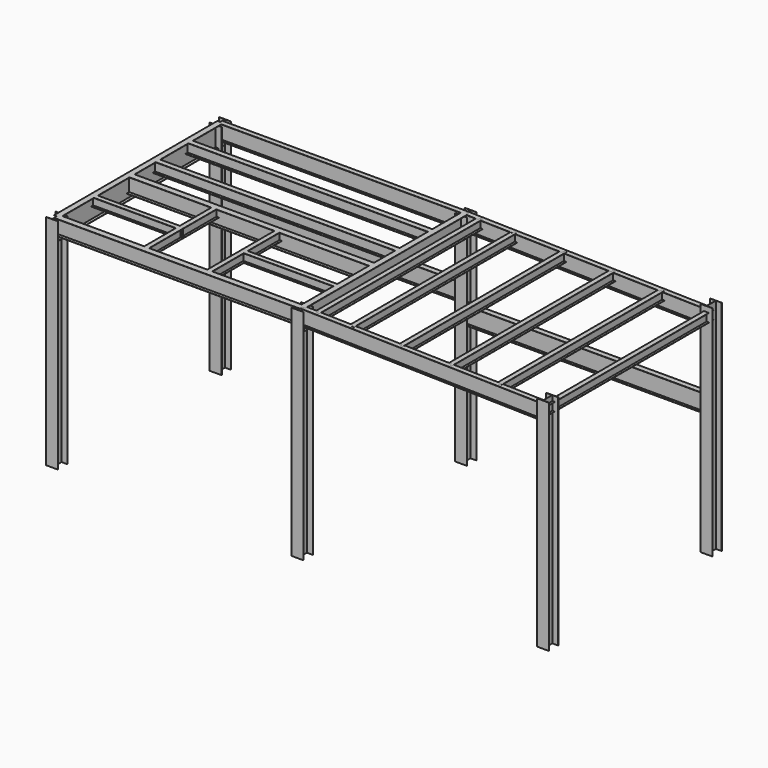
from build123d import *

# Parameters (mm, degrees)
F1_DEPTH  = 6515.1
F3_DEPTH  = 7315.2
F5_DEPTH  = 7315.2
F7_DEPTH  = 6096
F12_DEPTH = 2692.4
F13_W     = 1733.55
F13_H     = 146.05
F14_DEPTH = 258.318
F16_R     = 3.175
F17_DEPTH = 108.35539


with BuildPart() as f1:
    # F0 (on Top) → F1 (new body)
    with BuildSketch(Plane.XY):
        Polygon((177.8, 177.8), (0, 177.8), (-177.8, 177.8), (-177.8, 171.45), (-3.175, 171.45), (-3.175, 0), (-3.175, -171.45), (-177.8, -171.45), (-177.8, -177.8), (0, -177.8), (177.8, -177.8), (177.8, -171.45), (3.175, -171.45), (3.175, 0), (3.175, 171.45), (177.8, 171.45), align=None)
    extrude(amount=-F1_DEPTH)


with BuildPart() as f1b:
    # F0 (on Top) → F1, piece 2 (new body)
    with BuildSketch(Plane.XY):
        Polygon((3.175, -5924.55), (177.8, -5924.55), (177.8, -5918.2), (0, -5918.2), (-177.8, -5918.2), (-177.8, -5924.55), (-3.175, -5924.55), (-3.175, -6096), (-3.175, -6267.45), (-177.8, -6267.45), (-177.8, -6273.8), (0, -6273.8), (177.8, -6273.8), (177.8, -6267.45), (3.175, -6267.45), (3.175, -6096), align=None)
    extrude(amount=-F1_DEPTH)


with BuildPart() as f1c:
    # F0 (on Top) → F1, piece 3 (new body)
    with BuildSketch(Plane.XY):
        Polygon((-7312.025, 171.45), (-7137.4, 171.45), (-7137.4, 177.8), (-7315.2, 177.8), (-7493, 177.8), (-7493, 171.45), (-7318.375, 171.45), (-7318.375, 0), (-7318.375, -171.45), (-7493, -171.45), (-7493, -177.8), (-7315.2, -177.8), (-7137.4, -177.8), (-7137.4, -171.45), (-7312.025, -171.45), (-7312.025, 0), align=None)
    extrude(amount=-F1_DEPTH)


with BuildPart() as f1d:
    # F0 (on Top) → F1, piece 4 (new body)
    with BuildSketch(Plane.XY):
        Polygon((-7312.025, -5924.55), (-7137.4, -5924.55), (-7137.4, -5918.2), (-7315.2, -5918.2), (-7493, -5918.2), (-7493, -5924.55), (-7318.375, -5924.55), (-7318.375, -6096), (-7318.375, -6267.45), (-7493, -6267.45), (-7493, -6273.8), (-7315.2, -6273.8), (-7137.4, -6273.8), (-7137.4, -6267.45), (-7312.025, -6267.45), (-7312.025, -6096), align=None)
    extrude(amount=-F1_DEPTH)


with BuildPart() as f1e:
    # F0 (on Top) → F1, piece 5 (new body)
    with BuildSketch(Plane.XY):
        Polygon((7493, -5918.2), (7315.2, -5918.2), (7137.4, -5918.2), (7137.4, -5924.55), (7312.025, -5924.55), (7312.025, -6096), (7312.025, -6267.45), (7137.4, -6267.45), (7137.4, -6273.8), (7315.2, -6273.8), (7493, -6273.8), (7493, -6267.45), (7318.375, -6267.45), (7318.375, -6096), (7318.375, -5924.55), (7493, -5924.55), align=None)
    extrude(amount=-F1_DEPTH)


with BuildPart() as f1f:
    # F0 (on Top) → F1, piece 6 (new body)
    with BuildSketch(Plane.XY):
        Polygon((7137.4, -177.8), (7315.2, -177.8), (7493, -177.8), (7493, -171.45), (7318.375, -171.45), (7318.375, 0), (7318.375, 171.45), (7493, 171.45), (7493, 177.8), (7315.2, 177.8), (7137.4, 177.8), (7137.4, 171.45), (7312.025, 171.45), (7312.025, 0), (7312.025, -171.45), (7137.4, -171.45), align=None)
    extrude(amount=-F1_DEPTH)


with BuildPart() as f3:
    # F2 (on Right) → F3 (new body)
    with BuildSketch(Plane.YZ):
        Polygon((76.3905, 0), (0, 0), (-76.3905, 0), (-76.3905, -6.35), (-3.175, -6.35), (-3.175, -227.33), (-3.175, -448.31), (-76.3905, -448.31), (-76.3905, -454.66), (0, -454.66), (76.3905, -454.66), (76.3905, -448.31), (3.175, -448.31), (3.175, -227.33), (3.175, -6.35), (76.3905, -6.35), align=None)
    extrude(amount=-F3_DEPTH)


with BuildPart() as f3b:
    # F2 (on Right) → F3, piece 2 (new body)
    with BuildSketch(Plane.YZ):
        Polygon((-1136.777, 0), (-1219.2, 0), (-1301.623, 0), (-1301.623, -6.35), (-1222.375, -6.35), (-1222.375, -155.194), (-1222.375, -304.038), (-1301.623, -304.038), (-1301.623, -310.388), (-1219.2, -310.388), (-1136.777, -310.388), (-1136.777, -304.038), (-1216.025, -304.038), (-1216.025, -155.194), (-1216.025, -6.35), (-1136.777, -6.35), align=None)
    extrude(amount=-F3_DEPTH)


with BuildPart() as f3c:
    # F2 (on Right) → F3, piece 3 (new body)
    with BuildSketch(Plane.YZ):
        Polygon((-2355.977, 0), (-2438.4, 0), (-2520.823, 0), (-2520.823, -6.35), (-2441.575, -6.35), (-2441.575, -155.194), (-2441.575, -304.038), (-2520.823, -304.038), (-2520.823, -310.388), (-2438.4, -310.388), (-2355.977, -310.388), (-2355.977, -304.038), (-2435.225, -304.038), (-2435.225, -155.194), (-2435.225, -6.35), (-2355.977, -6.35), align=None)
    extrude(amount=-F3_DEPTH)


with BuildPart() as f3d:
    # F2 (on Right) → F3, piece 4 (new body)
    with BuildSketch(Plane.YZ):
        Polygon((-3308.4135, 0), (-3403.6, 0), (-3498.7865, 0), (-3498.7865, -6.35), (-3406.775, -6.35), (-3406.775, -228.473), (-3406.775, -450.596), (-3498.7865, -450.596), (-3498.7865, -456.946), (-3403.6, -456.946), (-3308.4135, -456.946), (-3308.4135, -450.596), (-3400.425, -450.596), (-3400.425, -228.473), (-3400.425, -6.35), (-3308.4135, -6.35), align=None)
    extrude(amount=-F3_DEPTH)


with BuildPart() as f3e:
    # F2 (on Right) → F3, piece 5 (new body)
    with BuildSketch(Plane.YZ):
        Polygon((-4676.775, 0), (-4749.8, 0), (-4822.825, 0), (-4822.825, -6.35), (-4752.975, -6.35), (-4752.975, -129.159), (-4752.975, -251.968), (-4822.825, -251.968), (-4822.825, -258.318), (-4749.8, -258.318), (-4676.775, -258.318), (-4676.775, -251.968), (-4746.625, -251.968), (-4746.625, -129.159), (-4746.625, -6.35), (-4676.775, -6.35), align=None)
    extrude(amount=-F3_DEPTH)

    # F13 (on face) → F14 (cut, through all)
    with BuildSketch(Plane.XY):
        with Locations((-3771.9, -4749.8)):
            Rectangle(F13_W, F13_H)
    extrude(amount=-F14_DEPTH, mode=Mode.SUBTRACT)


with BuildPart() as f3f:
    # F2 (on Right) → F3, piece 6 (new body)
    with BuildSketch(Plane.YZ):
        Polygon((-6000.8135, 0), (-6096, 0), (-6191.1865, 0), (-6191.1865, -6.35), (-6099.175, -6.35), (-6099.175, -228.473), (-6099.175, -450.596), (-6191.1865, -450.596), (-6191.1865, -456.946), (-6096, -456.946), (-6000.8135, -456.946), (-6000.8135, -450.596), (-6092.825, -450.596), (-6092.825, -228.473), (-6092.825, -6.35), (-6000.8135, -6.35), align=None)
    extrude(amount=-F3_DEPTH)


with BuildPart() as f3g:
    # F2 (on Right) → F3, piece 7 (new body)
    with BuildSketch(Plane.YZ):
        Polygon((79.375, -1822.4472343185), (-3.175, -1822.4472343185), (-85.725, -1822.4472343185), (-85.725, -1828.7972343185), (-6.35, -1828.7972343185), (-6.35, -2084.8292343185), (-6.35, -2340.8612343185), (-85.725, -2340.8612343185), (-85.725, -2347.2112343185), (-3.175, -2347.2112343185), (79.375, -2347.2112343185), (79.375, -2340.8612343185), (0, -2340.8612343185), (0, -2084.8292343185), (0, -1828.7972343185), (79.375, -1828.7972343185), align=None)
    extrude(amount=-F3_DEPTH)


with BuildPart() as f5:
    # F4 (on Right) → F5 (new body)
    with BuildSketch(Plane.YZ):
        Polygon((82.55, -2381.25), (0, -2381.25), (-82.55, -2381.25), (-82.55, -2387.6), (-3.175, -2387.6), (-3.175, -2643.632), (-3.175, -2899.664), (-82.55, -2899.664), (-82.55, -2906.014), (0, -2906.014), (82.55, -2906.014), (82.55, -2899.664), (3.175, -2899.664), (3.175, -2643.632), (3.175, -2387.6), (82.55, -2387.6), align=None)
    extrude(amount=F5_DEPTH)


with BuildPart() as f7:
    # F6 (on Front) → F7 (new body)
    with BuildSketch(Plane.XZ):
        Polygon((504.7287151365, -9.118242011), (431.7037151365, -9.118242011), (358.6787151365, -9.118242011), (358.6787151365, -15.468242011), (428.5287151365, -15.468242011), (428.5287151365, -138.277242011), (428.5287151365, -261.086242011), (358.6787151365, -261.086242011), (358.6787151365, -267.436242011), (431.7037151365, -267.436242011), (504.7287151365, -267.436242011), (504.7287151365, -261.086242011), (434.8787151365, -261.086242011), (434.8787151365, -138.277242011), (434.8787151365, -15.468242011), (504.7287151365, -15.468242011), align=None)
    extrude(amount=F7_DEPTH)


with BuildPart() as f7b:
    # F6 (on Front) → F7, piece 2 (new body)
    with BuildSketch(Plane.XZ):
        Polygon((1533.4081049037, -30.8455223164), (1460.3831049037, -30.8455223164), (1387.3581049037, -30.8455223164), (1387.3581049037, -37.1955223164), (1457.2081049037, -37.1955223164), (1457.2081049037, -160.0045223164), (1457.2081049037, -282.8135223164), (1387.3581049037, -282.8135223164), (1387.3581049037, -289.1635223164), (1460.3831049037, -289.1635223164), (1533.4081049037, -289.1635223164), (1533.4081049037, -282.8135223164), (1463.5581049037, -282.8135223164), (1463.5581049037, -160.0045223164), (1463.5581049037, -37.1955223164), (1533.4081049037, -37.1955223164), align=None)
    extrude(amount=F7_DEPTH)


with BuildPart() as f7c:
    # F6 (on Front) → F7, piece 3 (new body)
    with BuildSketch(Plane.XZ):
        Polygon((2997.1123286778, -61.7611917373), (2924.0873286778, -61.7611917373), (2851.0623286778, -61.7611917373), (2851.0623286778, -68.1111917373), (2920.9123286778, -68.1111917373), (2920.9123286778, -190.9201917373), (2920.9123286778, -313.7291917373), (2851.0623286778, -313.7291917373), (2851.0623286778, -320.0791917373), (2924.0873286778, -320.0791917373), (2997.1123286778, -320.0791917373), (2997.1123286778, -313.7291917373), (2927.2623286778, -313.7291917373), (2927.2623286778, -190.9201917373), (2927.2623286778, -68.1111917373), (2997.1123286778, -68.1111917373), align=None)
    extrude(amount=F7_DEPTH)


with BuildPart() as f7d:
    # F6 (on Front) → F7, piece 4 (new body)
    with BuildSketch(Plane.XZ):
        Polygon((4460.8165524519, -92.6768611582), (4387.7915524519, -92.6768611582), (4314.7665524519, -92.6768611582), (4314.7665524519, -99.0268611582), (4384.6165524519, -99.0268611582), (4384.6165524519, -221.8358611582), (4384.6165524519, -344.6448611582), (4314.7665524519, -344.6448611582), (4314.7665524519, -350.9948611582), (4387.7915524519, -350.9948611582), (4460.8165524519, -350.9948611582), (4460.8165524519, -344.6448611582), (4390.9665524519, -344.6448611582), (4390.9665524519, -221.8358611582), (4390.9665524519, -99.0268611582), (4460.8165524519, -99.0268611582), align=None)
    extrude(amount=F7_DEPTH)


with BuildPart() as f7e:
    # F6 (on Front) → F7, piece 5 (new body)
    with BuildSketch(Plane.XZ):
        Polygon((5924.5207762259, -123.5925305791), (5851.4957762259, -123.5925305791), (5778.4707762259, -123.5925305791), (5778.4707762259, -129.9425305791), (5848.3207762259, -129.9425305791), (5848.3207762259, -252.7515305791), (5848.3207762259, -375.5605305791), (5778.4707762259, -375.5605305791), (5778.4707762259, -381.9105305791), (5851.4957762259, -381.9105305791), (5924.5207762259, -381.9105305791), (5924.5207762259, -375.5605305791), (5854.6707762259, -375.5605305791), (5854.6707762259, -252.7515305791), (5854.6707762259, -129.9425305791), (5924.5207762259, -129.9425305791), align=None)
    extrude(amount=F7_DEPTH)


with BuildPart() as f7f:
    # F6 (on Front) → F7, piece 6 (new body)
    with BuildSketch(Plane.XZ):
        Polygon((7388.225, -154.5082), (7315.2, -154.5082), (7242.175, -154.5082), (7242.175, -160.8582), (7312.025, -160.8582), (7312.025, -283.6672), (7312.025, -406.4762), (7242.175, -406.4762), (7242.175, -412.8262), (7315.2, -412.8262), (7388.225, -412.8262), (7388.225, -406.4762), (7318.375, -406.4762), (7318.375, -283.6672), (7318.375, -160.8582), (7388.225, -160.8582), align=None)
    extrude(amount=F7_DEPTH)


with BuildPart() as f7g:
    # F6 (on Front) → F7, piece 7 (new body)
    with BuildSketch(Plane.XZ):
        Polygon((88.9635, 0), (0, 0), (-88.9635, 0), (-88.9635, -6.35), (-3.175, -6.35), (-3.175, -299.339), (-3.175, -592.328), (-88.9635, -592.328), (-88.9635, -598.678), (0, -598.678), (88.9635, -598.678), (88.9635, -592.328), (3.175, -592.328), (3.175, -299.339), (3.175, -6.35), (88.9635, -6.35), align=None)
    extrude(amount=F7_DEPTH)


with BuildPart() as f7h:
    # F6 (on Front) → F7, piece 8 (new body)
    with BuildSketch(Plane.XZ):
        Polygon((-7226.2365, 0), (-7315.2, 0), (-7404.1635, 0), (-7404.1635, -6.35), (-7318.375, -6.35), (-7318.375, -299.339), (-7318.375, -592.328), (-7404.1635, -592.328), (-7404.1635, -598.678), (-7315.2, -598.678), (-7226.2365, -598.678), (-7226.2365, -592.328), (-7312.025, -592.328), (-7312.025, -299.339), (-7312.025, -6.35), (-7226.2365, -6.35), align=None)
    extrude(amount=F7_DEPTH)


with BuildPart() as f10:
    # F10: sweep along a path in F9
    with BuildLine(Plane.XZ) as f10_path:
        Line((7315.2, -154.5082), (0, 0))
    # F8 (on Right) → F10 (sweep)
    with BuildSketch(Plane.YZ):
        Polygon((76.3905, 0), (0, 0), (-76.3905, 0), (-76.3905, -6.35), (-3.175, -6.35), (-3.175, -227.33), (-3.175, -448.31), (-76.3905, -448.31), (-76.3905, -454.66), (0, -454.66), (76.3905, -454.66), (76.3905, -448.31), (3.175, -448.31), (3.175, -227.33), (3.175, -6.35), (76.3905, -6.35), align=None)
        Polygon((-6019.6095, 0), (-6096, 0), (-6172.3905, 0), (-6172.3905, -6.35), (-6099.175, -6.35), (-6099.175, -227.33), (-6099.175, -448.31), (-6172.3905, -448.31), (-6172.3905, -454.66), (-6096, -454.66), (-6019.6095, -454.66), (-6019.6095, -448.31), (-6092.825, -448.31), (-6092.825, -227.33), (-6092.825, -6.35), (-6019.6095, -6.35), align=None)
    sweep(path=f10_path.line)


with BuildPart() as f12:
    # F11 (on face) → F12 (new body, through all)
    with BuildSketch(Plane.XZ.offset(6099.175)):
        Polygon((-2759.075, 0), (-2832.1, 0), (-2905.125, 0), (-2905.125, -6.35), (-2835.275, -6.35), (-2835.275, -129.159), (-2835.275, -251.968), (-2905.125, -251.968), (-2905.125, -258.318), (-2832.1, -258.318), (-2759.075, -258.318), (-2759.075, -251.968), (-2828.925, -251.968), (-2828.925, -129.159), (-2828.925, -6.35), (-2759.075, -6.35), align=None)
    extrude(amount=-F12_DEPTH)


with BuildPart() as f12b:
    # F11 (on face) → F12, piece 2 (new body, through all)
    with BuildSketch(Plane.XZ.offset(6099.175)):
        Polygon((-4638.675, 0), (-4711.7, 0), (-4784.725, 0), (-4784.725, -6.35), (-4714.875, -6.35), (-4714.875, -129.159), (-4714.875, -251.968), (-4784.725, -251.968), (-4784.725, -258.318), (-4711.7, -258.318), (-4638.675, -258.318), (-4638.675, -251.968), (-4708.525, -251.968), (-4708.525, -129.159), (-4708.525, -6.35), (-4638.675, -6.35), align=None)
    extrude(amount=-F12_DEPTH)


with BuildPart() as f1_1:
    add(f1.part)

    # F15: union F1b, F1c, F1d, F1e, F1f, F3, F3b, F3c, F3d, F3f, F3g, F5, F7, F7b, F7c, F7d, F7e, F7f, F7g, F7h, F10, F12, F12b, F3e
    add(f1b.part)
    add(f1c.part)
    add(f1d.part)
    add(f1e.part)
    add(f1f.part)
    add(f3.part)
    add(f3b.part)
    add(f3c.part)
    add(f3d.part)
    add(f3f.part)
    add(f3g.part)
    add(f5.part)
    add(f7.part)
    add(f7b.part)
    add(f7c.part)
    add(f7d.part)
    add(f7e.part)
    add(f7f.part)
    add(f7g.part)
    add(f7h.part)
    add(f10.part)
    add(f12.part)
    add(f12b.part)
    add(f3e.part)

    # F16 (on face) → F17 (cut, symmetric)
    with BuildSketch(Plane(origin=(0, 3.175, 0), x_dir=(-1, 0, 0), z_dir=(0, 1, 0))):
        with Locations((-3655.9394405655, -2387.6)):
            Circle(F16_R)
    extrude(amount=F17_DEPTH, both=True, mode=Mode.SUBTRACT)


solid = f1_1.part
